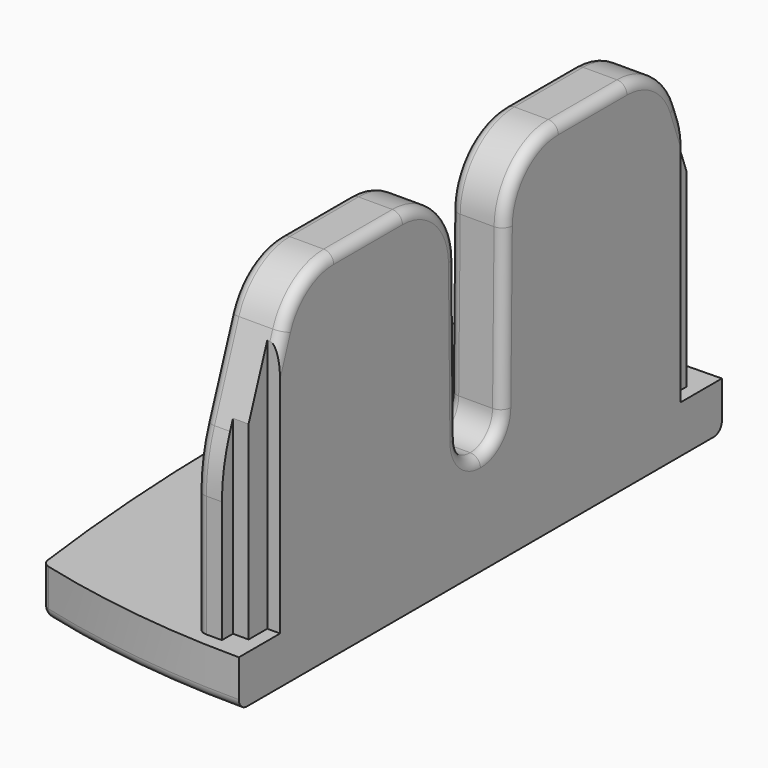
from build123d import *

# Parameters (mm, degrees)
F1_DEPTH      = 22.6695
F1_DEPTH_BACK = 22.6695
F3_DEPTH      = 25.4
F5_DEPTH      = 25.4
F7_DEPTH      = 25.4
F8_R          = 0.762


with BuildPart() as f1:
    # F0 (on Front) → F1 (new body, two sides)
    with BuildSketch(Plane.XZ) as f1_sk:
        Polygon((-17.78, 3.556), (-17.78, 0), (0, 0), (0, 26.67), (-4.064, 26.67), (-4.064, 3.556), align=None)
    extrude(amount=F1_DEPTH)
    extrude(f1_sk.sketch, amount=-F1_DEPTH_BACK)

    # F2 (on face) → F3 (cut)
    with BuildSketch(Plane.YZ):
        with BuildLine():
            Line((21.59, 3.556), (22.6695, 3.556))
            Line((22.6695, 3.556), (22.6695, 27.94))
            Line((22.6695, 27.94), (0, 27.94))
            Line((0, 27.94), (-22.6695, 27.94))
            Line((-22.6695, 27.94), (-22.6695, 3.556))
            Line((-22.6695, 3.556), (-21.59, 3.556))
            Line((-21.59, 3.556), (-21.59, 12.7))
            ThreePointArc((-21.59, 12.7), (-21.3970584633, 14.9053318564), (-20.824096284, 17.0436558202))
            Line((-20.824096284, 17.0436558202), (-18.5369777572, 23.3274623281))
            ThreePointArc((-18.5369777572, 23.3274623281), (-16.6771075403, 25.751292385), (-13.7633392436, 26.67))
            Line((-13.7633392436, 26.67), (-7.3148526832, 26.67))
            ThreePointArc((-7.3148526832, 26.67), (-3.7438138302, 25.2030432478), (-2.2352, 21.6494021693))
            Line((-2.2352, 21.6494021693), (-2.0953567318, 9.6909966051))
            ThreePointArc((-2.0953567318, 9.6909966051), (-1.4730535269, 8.2251196603), (0, 7.62))
            ThreePointArc((0, 7.62), (1.4730535269, 8.2251196603), (2.0953567318, 9.6909966051))
            Line((2.0953567318, 9.6909966051), (2.2352, 21.6494021693))
            ThreePointArc((2.2352, 21.6494021693), (3.7438138302, 25.2030432478), (7.3148526832, 26.67))
            Line((7.3148526832, 26.67), (13.7633392436, 26.67))
            ThreePointArc((13.7633392436, 26.67), (16.6771075403, 25.751292385), (18.5369777572, 23.3274623281))
            Line((18.5369777572, 23.3274623281), (20.824096284, 17.0436558202))
            ThreePointArc((20.824096284, 17.0436558202), (21.3970584633, 14.9053318564), (21.59, 12.7))
            Line((21.59, 12.7), (21.59, 3.556))
        make_face()
    extrude(amount=-F3_DEPTH, mode=Mode.SUBTRACT)

    # F4 (on face) → F5 (cut)
    with BuildSketch(Plane.XY.offset(3.556)):
        Polygon((0, 22.6695), (-2.1336, 22.6695), (-2.1336, 20.5486), (-0.9652, 20.5486), (-0.9652, 18.796), (0, 18.796), align=None)
        Polygon((-2.1336, -20.5486), (-2.1336, -22.6695), (0, -22.6695), (0, -18.796), (-0.9652, -18.796), (-0.9652, -20.5486), align=None)
    extrude(amount=F5_DEPTH, mode=Mode.SUBTRACT)

    # F6 (on face) → F7 (cut)
    with BuildSketch(Plane.XY.offset(3.556)):
        with BuildLine():
            ThreePointArc((-16.3926058311, 20.5171362549), (-8.2666528236, 22.1291096803), (0, 22.6695))
            Line((0, 22.6695), (0, 25.4))
            Line((0, 25.4), (-25.4, 25.4))
            Line((-25.4, 25.4), (-25.4, -25.4))
            Line((-25.4, -25.4), (0, -25.4))
            Line((0, -25.4), (0, -22.6695))
            ThreePointArc((0, -22.6695), (-8.2666528236, -22.1291096803), (-16.3926058311, -20.5171362549))
            ThreePointArc((-16.3926058311, -20.5171362549), (-17.78, 0), (-16.3926058311, 20.5171362549))
        make_face()
    extrude(amount=-F7_DEPTH, mode=Mode.SUBTRACT)

    # F8
    f8_edges = [f1.edges().sort_by_distance(p)[0] for p in [
        (-8.266653, -22.12911, 0),
        (-17.78, 0, 0),
        (-8.266653, 22.12911, 0),
        (-16.392606, -20.517136, 1.778),
        (-16.392606, 20.517136, 1.778),
        (-4.064, 21.59, 8.128),
        (0, 0, 7.62),
    ]]
    fillet(f8_edges, radius=F8_R)


solid = f1.part
